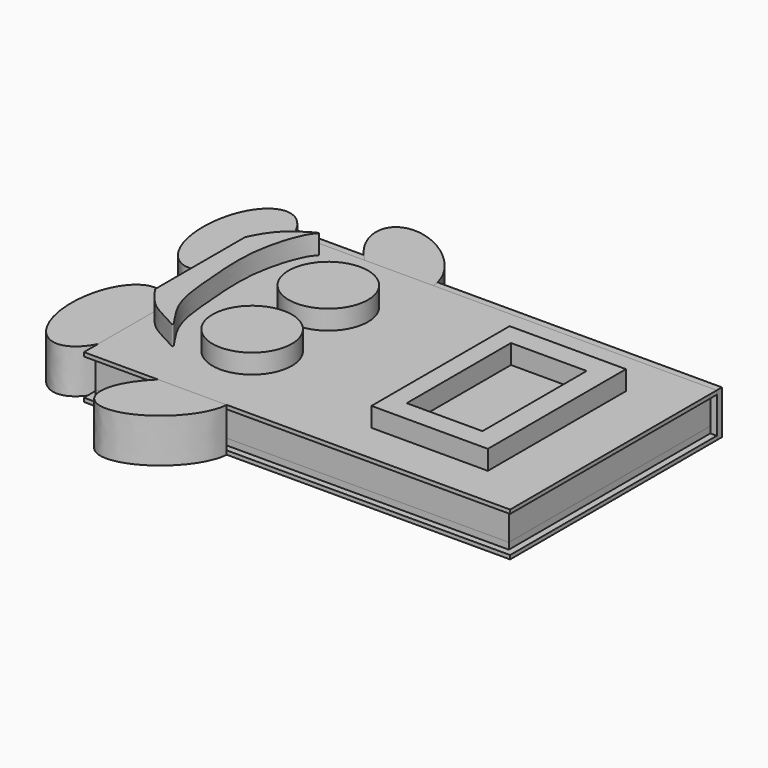
from build123d import *

# Parameters (mm, degrees)
F0_W      = 306
F0_H      = 180
F1_DEPTH  = 5
F2_W      = 320
F2_H      = 195
F3_DEPTH  = 5
F5_W      = 320
F5_H      = 195
F5_H_2    = 5
F6_DEPTH  = 3
F7_W      = 320
F7_H      = 195
F7_W_2    = 301
F7_H_2    = 175
F8_DEPTH  = 3
F9_W      = 320
F9_H      = 195
F10_DEPTH = 20
F11_W     = 320
F11_H     = 5
F11_H_2   = 195
F12_DEPTH = 3
F13_W     = 330
F13_H     = 34
F14_DEPTH = 5
F15_R     = 30.7449551085
F15_W     = 90.0971293449
F15_H     = 133.6713824421
F15_W_2   = 58.6450397968
F15_H_2   = 100.9088121355
F16_DEPTH = 15
F18_DEPTH = 34


with BuildPart() as f1:
    # F0 (on Top) → F1 (new body)
    with BuildSketch(Plane.XY):
        with Locations((153, 90)):
            Rectangle(F0_W, F0_H)
    extrude(amount=F1_DEPTH)


with BuildPart() as f3:
    # F2 (on Top) → F3 (new body)
    with BuildSketch(Plane.XY):
        with Locations((153, 90)):
            Rectangle(F2_W, F2_H)
    extrude(amount=F3_DEPTH)

    # F4: cut F1
    add(f1.part, mode=Mode.SUBTRACT)


with BuildPart() as f6:
    # F5 (on face) → F6 (new body)
    with BuildSketch(Plane(origin=(0, 0, 0), x_dir=(1, 0, 0), z_dir=(0, 0, -1))):
        with Locations((153, -90)):
            Rectangle(F5_W, F5_H)
        Polygon((313, 7.5), (313, -187.5), (318, -187.5), (318, 12.5), (313, 12.5), align=None)
        Polygon((-12, -187.5), (-7, -187.5), (-7, 7.5), (-7, 12.5), (-12, 12.5), align=None)
        with Locations((153, 10)):
            Rectangle(F5_W, F5_H_2)
    extrude(amount=F6_DEPTH)


with BuildPart() as f8:
    # F7 (on face) → F8 (new body)
    with BuildSketch(Plane.XY.offset(5)):
        with Locations((153, 90)):
            Rectangle(F7_W, F7_H)
        with Locations((153, 90)):
            Rectangle(F7_W_2, F7_H_2, mode=Mode.SUBTRACT)
    extrude(amount=F8_DEPTH)

    # F9 (on face) → F10 (join)
    with BuildSketch(Plane.XY.offset(8)):
        with Locations((153, 90)):
            Rectangle(F9_W, F9_H)
    extrude(amount=F10_DEPTH)


with BuildPart() as f12:
    # F11 (on face) → F12 (new body)
    with BuildSketch(Plane.XY.offset(28)):
        with Locations((153, -10)):
            Rectangle(F11_W, F11_H)
        with Locations((153, 90)):
            Rectangle(F11_W, F11_H_2)
        Polygon((313, 187.5), (313, -7.5), (313, -12.5), (318, -12.5), (318, 187.5), align=None)
        Polygon((-7, -12.5), (-7, -7.5), (-7, 187.5), (-12, 187.5), (-12, -12.5), align=None)
    extrude(amount=F12_DEPTH)

    # F15 (on face) → F16 (join)
    with BuildSketch(Plane.XY.offset(31)):
        with Locations((66.6246637702, 125.7512122393)):
            Circle(F15_R)
        with Locations((66.6246637702, 52.0174270496)):
            Circle(F15_R)
        with Locations((66.6246637702, 125.7512122393)):
            Circle(F15_R)
        with Locations((66.6246637702, 52.0174270496)):
            Circle(F15_R)
        with BuildLine():
            add(Edge.make_bspline(
                [(-12, 143.482670188), (-8.4560991253, 150.6922997365), (-1.740489571, 164.354366727), (23.5333067725, 178.4553375923), (13.3351713308, 169.8795160599), (1.1678930231, 130.9418356581), (5.5946860848, 88.0999725822), (8.0178004618, 48.3556264894), (30.7079728341, 22.8204028991), (15.8051919315, 31.9073003897), (0.1729151164, 39.052800566), (-7.8726862997, 50.4898921624), (-12, 56.3570559025)],
                knots=[0, 0, 0, 0, 0.1051986722, 0.1993487942, 0.2469565312, 0.3789347665, 0.5196184826, 0.655465745, 0.7532822793, 0.8145186809, 0.9048496625, 1, 1, 1, 1], degree=3))
            Line((-12, 143.482670188), (-12, 56.3570559025))
        make_face()
        with Locations((230.7583391666, 85.5212910101)):
            Rectangle(F15_W, F15_H)
        with Locations((229.4478267431, 85.193650797)):
            Rectangle(F15_W_2, F15_H_2, mode=Mode.SUBTRACT)
    extrude(amount=F16_DEPTH)


with BuildPart() as f14:
    # F13 (on face) → F14 (new body)
    with BuildSketch(Plane(origin=(0, 187.5, 0), x_dir=(-1, 0, 0), z_dir=(0, 1, 0))):
        with Locations((-153, 14)):
            Rectangle(F13_W, F13_H)
    extrude(amount=F14_DEPTH)


with BuildPart() as f18:
    # F17 (on face) → F18 (new body, through all)
    with BuildSketch(Plane.XY.offset(31)):
        with BuildLine():
            add(Edge.make_bspline(
                [(-6.4304488837, 48.6989639499), (-8.3434899275, 51.1591705456), (-10.1717460748, 53.7581099738), (-12, 56.3570559025)],
                knots=[0.9578517674, 0.9578517674, 0.9578517674, 0.9578517674, 1, 1, 1, 1], degree=3))
            add(Edge.make_bspline(
                [(-6.4304488837, 48.6989639499), (-38.0992871239, 210.1686925871), (-57.7137195615, 42.7925264452), (-77.3281519992, -124.5836396968), (-12, 1.1722197553)],
                knots=[5.0469666126, 5.0469666126, 5.0469666126, 7.6491731862, 7.6491731862, 10.2513797599, 10.2513797599, 10.2513797599], degree=2, weights=[1, 0.266435585, 1, 0.266435585, 1]))
            Line((-12, 1.1722197553), (-12, 56.3570559025))
        make_face()
    extrude(amount=-F18_DEPTH)


with BuildPart() as f18b:
    # F17 (on face) → F18, piece 2 (new body, through all)
    with BuildSketch(Plane.XY.offset(31)):
        with BuildLine():
            Line((-12, 187.5), (-9.6329098682, 187.5))
            add(Edge.make_bspline(
                [(-9.6329098682, 187.5), (-29.8549870938, 239.7130504336), (-52.3337852314, 190.484666173), (-74.812583369, 141.2562819125), (-41.7888337095, 117.0787895145), (-8.76508405, 92.9012971165), (-5.0933067813, 155.8987599577)],
                knots=[5.3140017065, 5.3140017065, 5.3140017065, 7.1735435828, 7.1735435828, 9.0330854591, 9.0330854591, 10.8926273354, 10.8926273354, 10.8926273354], degree=2, weights=[1, 0.5980175871, 1, 0.5980175871, 1, 0.5980175871, 1]))
            add(Edge.make_bspline(
                [(-12, 143.482670188), (-9.9453503048, 147.6626017601), (-7.8906991897, 151.8425339223), (-5.0933067813, 155.8987599577)],
                knots=[0, 0, 0, 0, 0.060991102, 0.060991102, 0.060991102, 0.060991102], degree=3))
            Line((-12, 143.482670188), (-12, 187.5))
        make_face()
    extrude(amount=-F18_DEPTH)


with BuildPart() as f18c:
    # F17 (on face) → F18, piece 3 (new body, through all)
    with BuildSketch(Plane.XY.offset(31)):
        with BuildLine():
            Line((98.487765613, -12.5), (45.4211161304, -12.5))
            add(Edge.make_bspline(
                [(45.4211161304, -12.5), (16.4623234608, -39.7918203939), (31.227260828, -56.5803945065)],
                knots=[4.7736765188, 4.7736765188, 4.7736765188, 6.2831853072, 6.2831853072, 6.2831853072], degree=2, weights=[1, 0.7284398321, 1]))
            add(Edge.make_bspline(
                [(31.227260828, -56.5803945065), (43.444785004, -70.4724148381), (70.4443309542, -52.7777715881), (97.4438769045, -35.0831283382), (98.487765613, -12.5)],
                knots=[0, 0, 0, 1.3226723219, 1.3226723219, 2.6453446438, 2.6453446438, 2.6453446438], degree=2, weights=[1, 0.7891723038, 1, 0.7891723038, 1]))
        make_face()
    extrude(amount=-F18_DEPTH)


with BuildPart() as f18d:
    # F17 (on face) → F18, piece 4 (new body, through all)
    with BuildSketch(Plane.XY.offset(31)):
        with BuildLine():
            add(Edge.make_bspline(
                [(31.227260828, 231.5803945065), (16.4623234608, 214.7918203939), (45.4211161304, 187.5)],
                knots=[0, 0, 0, 1.5095087884, 1.5095087884, 1.5095087884], degree=2, weights=[1, 0.7284398321, 1]))
            Line((45.4211161304, 187.5), (98.487765613, 187.5))
            add(Edge.make_bspline(
                [(98.487765613, 187.5), (97.4438769045, 210.0831283382), (70.4443309542, 227.7777715881), (43.444785004, 245.4724148381), (31.227260828, 231.5803945065)],
                knots=[3.6378406634, 3.6378406634, 3.6378406634, 4.9605129853, 4.9605129853, 6.2831853072, 6.2831853072, 6.2831853072], degree=2, weights=[1, 0.7891723038, 1, 0.7891723038, 1]))
        make_face()
    extrude(amount=-F18_DEPTH)


solid = Compound([f1.part, f3.part, f6.part, f8.part, f12.part, f14.part, f18.part, f18b.part, f18c.part, f18d.part])
